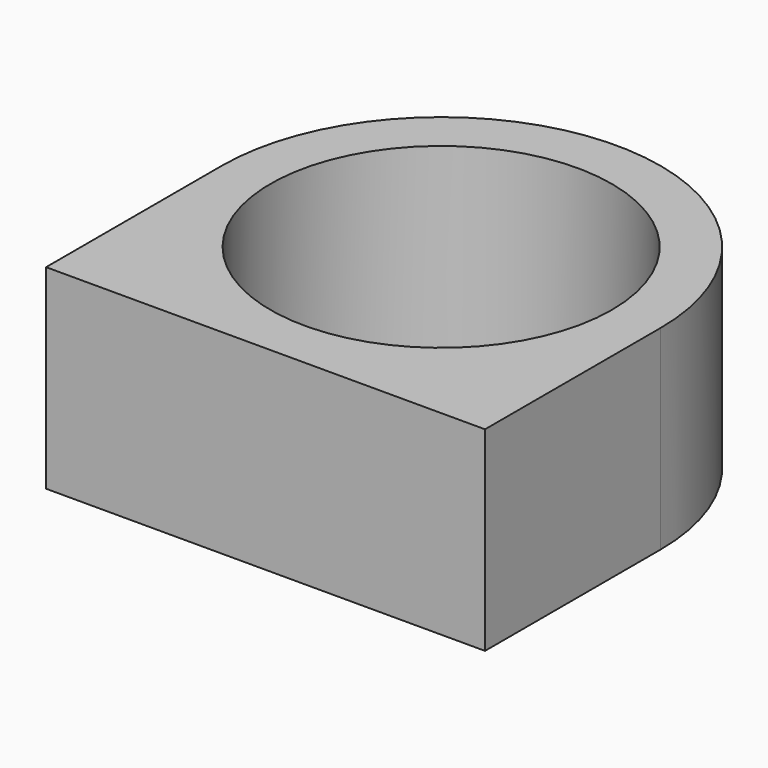
from build123d import *

# Parameters (mm, degrees)
F0_R     = 11.1125
F1_DEPTH = 12.7


with BuildPart() as f1:
    # F0 (on Top) → F1 (new body)
    with BuildSketch(Plane.XY):
        with BuildLine():
            Line((0, 0), (0, -14.2875))
            Line((0, -14.2875), (28.575, -14.2875))
            Line((28.575, -14.2875), (28.575, 0))
            ThreePointArc((28.575, 0), (14.2875, 14.2875), (0, 0))
        make_face()
        with Locations((14.2875, 0)):
            Circle(F0_R, mode=Mode.SUBTRACT)
    extrude(amount=F1_DEPTH)


solid = f1.part
